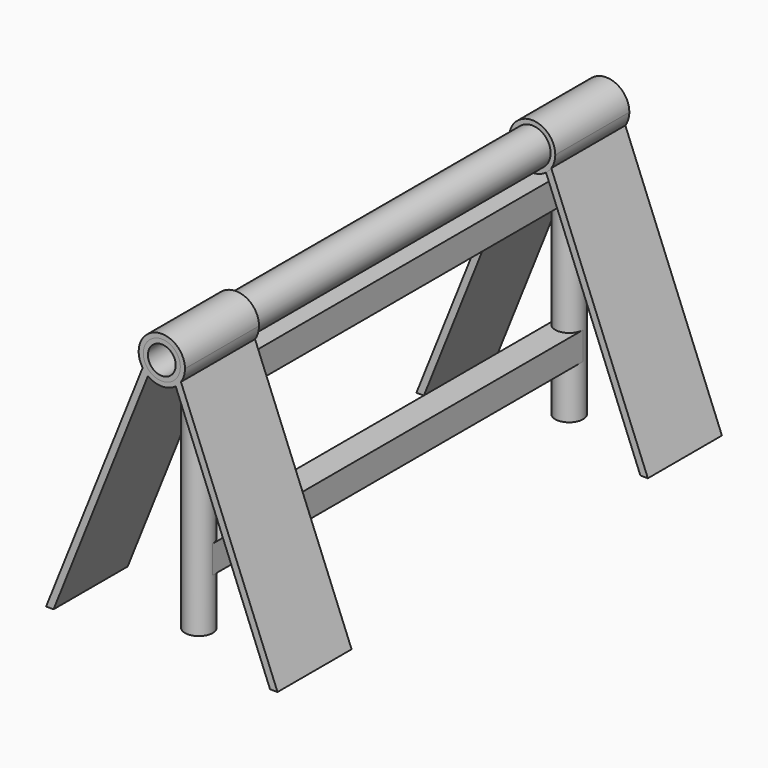
from build123d import *

# Parameters (mm, degrees)
F2_DEPTH = 20
F3_START = 10
F1_W     = 6
F1_H     = 6
F1_W_2   = 4
F1_H_2   = 4
F3_DEPTH = 100
F0_R     = 3
F0_R_2   = 2
F4_DEPTH = 50
F5_DEPTH = 55
F1_R     = 4
F1_R_2   = 3
F6_DEPTH = 120
F7_DEPTH = 20
F8_START = 100
F8_DEPTH = 20
F9_DEPTH = 120


with BuildPart() as f2:
    # F1 (on Front) → F2 (new body)
    with BuildSketch(Plane.XZ):
        with BuildLine():
            ThreePointArc((-3, 51), (-3.6186841703, 51.5496196043), (-4.1382378442, 52.1937591792))
            Line((-4.1382378442, 52.1937591792), (-25, 0))
            Line((-25, 0), (-23.3846185191, 0))
            Line((-23.3846185191, 0), (-3, 51))
        make_face()
    extrude(amount=F2_DEPTH)


with BuildPart() as f2b:
    # F1 (on Front) → F2, piece 2 (new body)
    with BuildSketch(Plane.XZ):
        with BuildLine():
            Line((25, 0), (4.1382378442, 52.1937591792))
            ThreePointArc((4.1382378442, 52.1937591792), (3.6186841703, 51.5496196043), (3, 51))
            Line((3, 51), (23.3846185191, 0))
            Line((23.3846185191, 0), (25, 0))
        make_face()
    extrude(amount=F2_DEPTH)


with BuildPart() as f3:
    # F1 (on Front) → F3 (new body)
    with BuildSketch(Plane.XZ.offset(F3_START)):
        with Locations((0, 46)):
            Rectangle(F1_W, F1_H)
        with Locations((0, 46)):
            Rectangle(F1_W_2, F1_H_2, mode=Mode.SUBTRACT)
    extrude(amount=F3_DEPTH)


with BuildPart() as f3b:
    # F1 (on Front) → F3, piece 2 (new body)
    with BuildSketch(Plane.XZ.offset(F3_START)):
        with Locations((-2.61e-08, 14)):
            Rectangle(F1_W, F1_H)
        with Locations((-2.61e-08, 14)):
            Rectangle(F1_W_2, F1_H_2, mode=Mode.SUBTRACT)
    extrude(amount=F3_DEPTH)


with BuildPart() as f4_tool:
    # F0 (on Top) → F4 (new body)
    with BuildSketch(Plane.XY):
        with Locations((0, -10)):
            Circle(F0_R)
        with Locations((0, -10)):
            Circle(F0_R_2, mode=Mode.SUBTRACT)
        with Locations((0, -110)):
            Circle(F0_R)
        with Locations((0, -110)):
            Circle(F0_R_2, mode=Mode.SUBTRACT)
        with Locations((0, -10)):
            Circle(F0_R_2)
        with Locations((0, -110)):
            Circle(F0_R_2)
    extrude(amount=F4_DEPTH)


with BuildPart() as f3_1:
    add(f3.part)

    # F4: cut by f4_tool
    add(f4_tool.part, mode=Mode.SUBTRACT)


with BuildPart() as f3b_1:
    add(f3b.part)

    # F4: cut by f4_tool
    add(f4_tool.part, mode=Mode.SUBTRACT)


with BuildPart() as f5:
    # F0 (on Top) → F5 (new body)
    with BuildSketch(Plane.XY):
        with Locations((0, -10)):
            Circle(F0_R)
        with Locations((0, -10)):
            Circle(F0_R_2, mode=Mode.SUBTRACT)
    extrude(amount=F5_DEPTH)


with BuildPart() as f5b:
    # F0 (on Top) → F5, piece 2 (new body)
    with BuildSketch(Plane.XY):
        with Locations((0, -110)):
            Circle(F0_R)
        with Locations((0, -110)):
            Circle(F0_R_2, mode=Mode.SUBTRACT)
    extrude(amount=F5_DEPTH)


with BuildPart() as f6_tool:
    # F1 (on Front) → F6 (new body)
    with BuildSketch(Plane.XZ):
        with BuildLine():
            ThreePointArc((4.1382378442, 52.1937591792), (4.7797065402, 53.5322107135), (5, 55))
            ThreePointArc((5, 55), (-1.4677892865, 59.7797065402), (-4.1382378442, 52.1937591792))
            ThreePointArc((-4.1382378442, 52.1937591792), (-3.6186841703, 51.5496196043), (-3, 51))
            ThreePointArc((-3, 51), (0, 50), (3, 51))
            ThreePointArc((3, 51), (3.6186841703, 51.5496196043), (4.1382378442, 52.1937591792))
        make_face()
        with Locations((0, 55)):
            Circle(F1_R, mode=Mode.SUBTRACT)
        with Locations((0, 55)):
            Circle(F1_R)
        with Locations((0, 55)):
            Circle(F1_R_2, mode=Mode.SUBTRACT)
        with Locations((0, 55)):
            Circle(F1_R_2)
    extrude(amount=F6_DEPTH)


with BuildPart() as f5_1:
    add(f5.part)

    # F6: cut by f6_tool
    add(f6_tool.part, mode=Mode.SUBTRACT)


with BuildPart() as f5b_1:
    add(f5b.part)

    # F6: cut by f6_tool
    add(f6_tool.part, mode=Mode.SUBTRACT)


with BuildPart() as f7:
    # F1 (on Front) → F7 (new body)
    with BuildSketch(Plane.XZ):
        with BuildLine():
            ThreePointArc((4.1382378442, 52.1937591792), (4.7797065402, 53.5322107135), (5, 55))
            ThreePointArc((5, 55), (-1.4677892865, 59.7797065402), (-4.1382378442, 52.1937591792))
            ThreePointArc((-4.1382378442, 52.1937591792), (-3.6186841703, 51.5496196043), (-3, 51))
            ThreePointArc((-3, 51), (0, 50), (3, 51))
            ThreePointArc((3, 51), (3.6186841703, 51.5496196043), (4.1382378442, 52.1937591792))
        make_face()
        with Locations((0, 55)):
            Circle(F1_R, mode=Mode.SUBTRACT)
    extrude(amount=F7_DEPTH)


with BuildPart() as f8:
    # F1 (on Front) → F8 (new body)
    with BuildSketch(Plane.XZ.offset(F8_START)):
        with BuildLine():
            ThreePointArc((4.1382378442, 52.1937591792), (4.7797065402, 53.5322107135), (5, 55))
            ThreePointArc((5, 55), (-1.4677892865, 59.7797065402), (-4.1382378442, 52.1937591792))
            ThreePointArc((-4.1382378442, 52.1937591792), (-3.6186841703, 51.5496196043), (-3, 51))
            ThreePointArc((-3, 51), (0, 50), (3, 51))
            ThreePointArc((3, 51), (3.6186841703, 51.5496196043), (4.1382378442, 52.1937591792))
        make_face()
        with Locations((0, 55)):
            Circle(F1_R, mode=Mode.SUBTRACT)
        with BuildLine():
            ThreePointArc((-3, 51), (-3.6186841703, 51.5496196043), (-4.1382378442, 52.1937591792))
            Line((-4.1382378442, 52.1937591792), (-25, 0))
            Line((-25, 0), (-23.3846185191, 0))
            Line((-23.3846185191, 0), (-3, 51))
        make_face()
        with BuildLine():
            Line((25, 0), (4.1382378442, 52.1937591792))
            ThreePointArc((4.1382378442, 52.1937591792), (3.6186841703, 51.5496196043), (3, 51))
            Line((3, 51), (23.3846185191, 0))
            Line((23.3846185191, 0), (25, 0))
        make_face()
    extrude(amount=F8_DEPTH)


with BuildPart() as f9:
    # F1 (on Front) → F9 (new body)
    with BuildSketch(Plane.XZ):
        with Locations((0, 55)):
            Circle(F1_R)
        with Locations((0, 55)):
            Circle(F1_R_2, mode=Mode.SUBTRACT)
    extrude(amount=F9_DEPTH)


solid = Compound([f2.part, f2b.part, f3_1.part, f3b_1.part, f5_1.part, f5b_1.part, f7.part, f8.part, f9.part])
